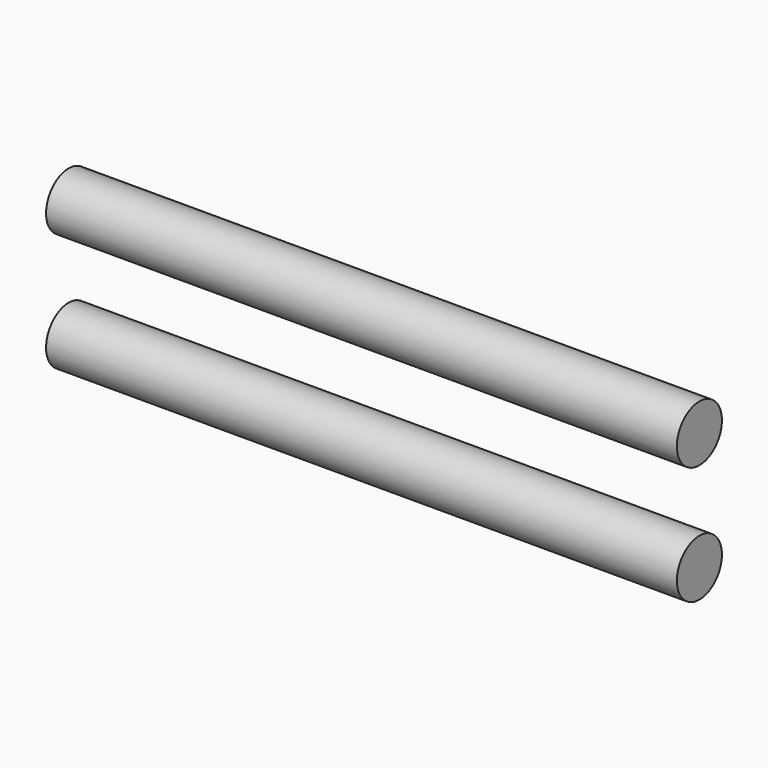
from build123d import *

# Parameters (mm, degrees)
CYLINDER002_R     = 5
CYLINDER002_DEPTH = 112
CYLINDER001_R     = 5
CYLINDER001_DEPTH = 112


with BuildPart() as cylinder002:
    # Cylinder002 → Cylinder002 (new body)
    with BuildSketch(Plane(origin=(0, 116, 142.5), x_dir=(0, 0, -1), z_dir=(1, 0, 0))):
        Circle(CYLINDER002_R)
    extrude(amount=CYLINDER002_DEPTH)


with BuildPart() as nitrogenpipes10mm:
    # Cylinder001 → Cylinder001 (new body)
    with BuildSketch(Plane(origin=(0, 116, 121.5), x_dir=(0, 0, -1), z_dir=(1, 0, 0))):
        Circle(CYLINDER001_R)
    extrude(amount=CYLINDER001_DEPTH)

    # Fusion: union Cylinder002
    add(cylinder002.part)


solid = nitrogenpipes10mm.part
